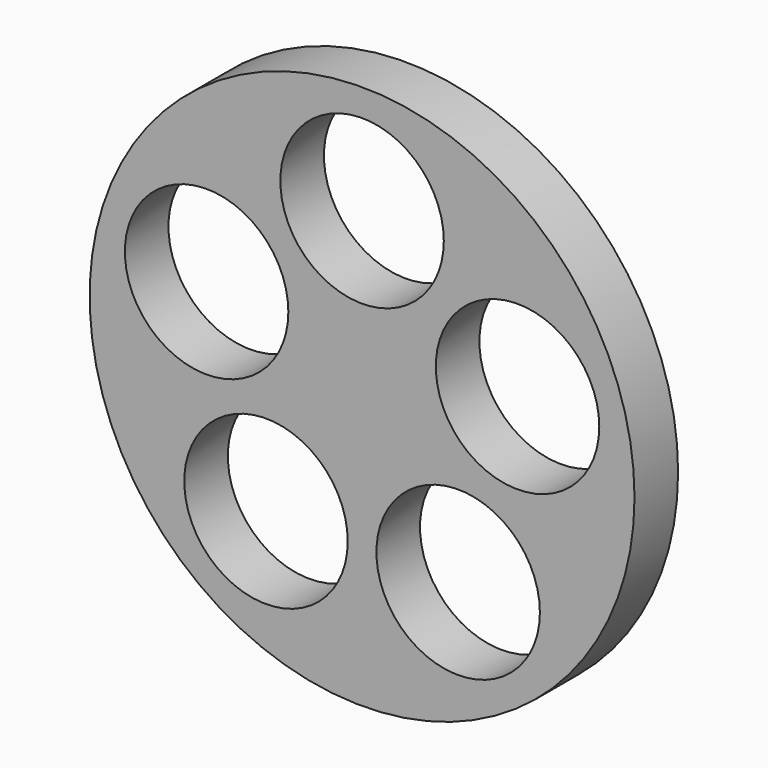
from build123d import *

# Parameters (mm, degrees)
F0_R     = 50
F0_R_2   = 15
F1_DEPTH = 5


with BuildPart() as f1:
    # F0 (on Front) → F1 (new body, symmetric)
    with BuildSketch(Plane.XZ):
        Circle(F0_R)
        with Locations((-17.6335575688, -24.2705098312)):
            Circle(F0_R_2, mode=Mode.SUBTRACT)
        with Locations((17.6335575688, -24.2705098312)):
            Circle(F0_R_2, mode=Mode.SUBTRACT)
        with Locations((-28.5316954889, 9.2705098312)):
            Circle(F0_R_2, mode=Mode.SUBTRACT)
        with Locations((28.5316954889, 9.2705098312)):
            Circle(F0_R_2, mode=Mode.SUBTRACT)
        with Locations((0, 30)):
            Circle(F0_R_2, mode=Mode.SUBTRACT)
    extrude(amount=F1_DEPTH, both=True)


solid = f1.part
